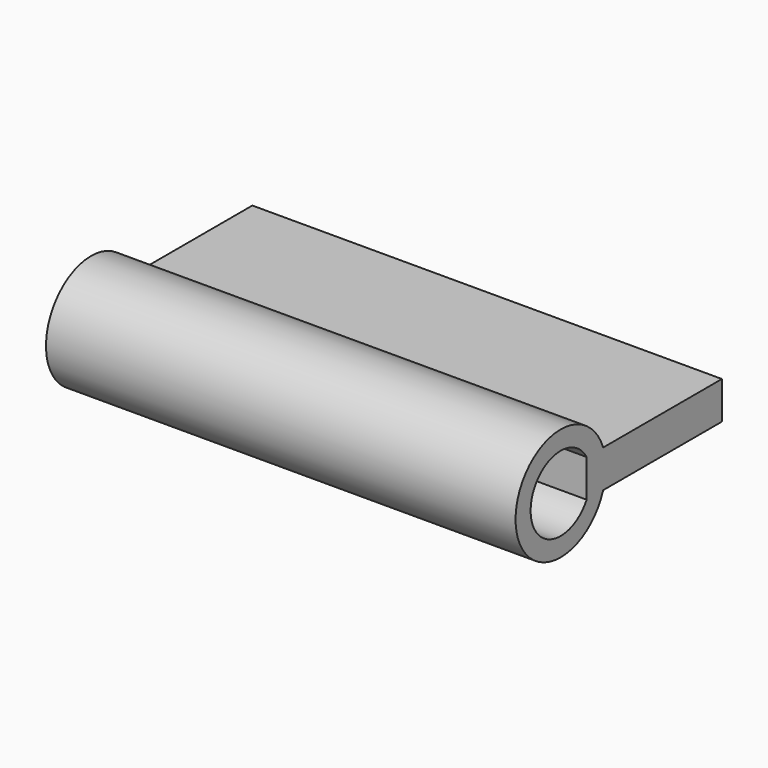
from build123d import *

# Parameters (mm, degrees)
F0_W          = 25
F0_H          = 9
F1_DEPTH      = 2
F3_DEPTH      = 12.5
F3_DEPTH_BACK = 12.5


with BuildPart() as f1:
    # F0 (on Top) → F1 (new body)
    with BuildSketch(Plane.XY):
        Rectangle(F0_W, F0_H)
    extrude(amount=F1_DEPTH)

    # F2 (on Right) → F3 (join, two sides)
    with BuildSketch(Plane.YZ) as f3_sk:
        with BuildLine():
            Line((-4.5, 2), (-3.403624, 2))
            ThreePointArc((-3.403624, 2), (-9.232051, 1), (-3.403624, 0))
            Line((-3.403624, 0), (-4.5, 0))
            ThreePointArc((-4.5, 0), (-8.232051, 1), (-4.5, 2))
        make_face()
    extrude(amount=F3_DEPTH)
    extrude(f3_sk.sketch, amount=-F3_DEPTH_BACK)


solid = f1.part
